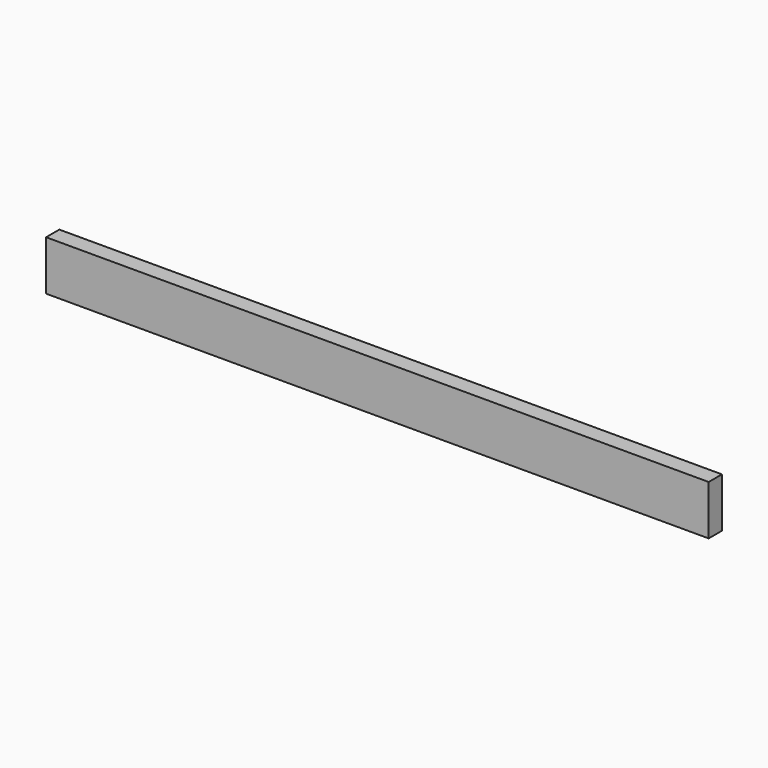
from build123d import *

# Parameters (mm, degrees)
F0_W     = 20
F0_H     = 60
F1_DEPTH = 400
F2_R     = 2.7550181626
F3_DEPTH = 12


with BuildPart() as f1:
    # F0 (on Right) → F1 (new body, symmetric)
    with BuildSketch(Plane.YZ):
        with Locations((10, 30)):
            Rectangle(F0_W, F0_H)
    extrude(amount=F1_DEPTH, both=True)

    # F2 (on face) → F3 (cut)
    with BuildSketch(Plane(origin=(-400, 0, 0), x_dir=(0, -1, 0), z_dir=(-1, 0, 0))):
        with Locations((-10, 30)):
            Circle(F2_R)
    extrude(amount=-F3_DEPTH, mode=Mode.SUBTRACT)


solid = f1.part
